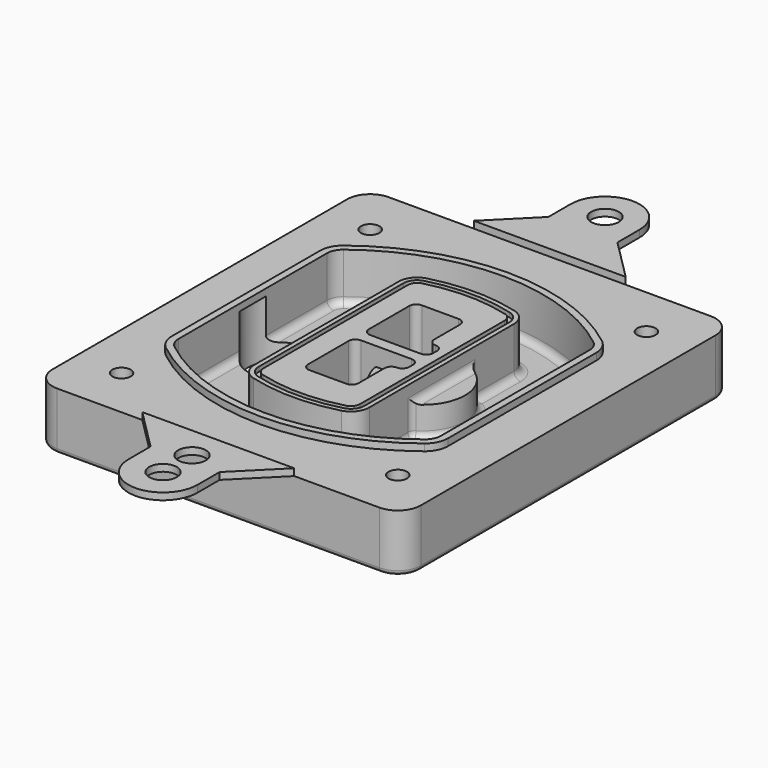
from build123d import *

# Parameters (mm, degrees)
F0_R      = 4
F1_DEPTH  = 25
F2_DEPTH  = 3
F3_DEPTH  = 18
F5_DEPTH  = 21
F6_DEPTH  = 2
F8_DEPTH  = 20
F9_DEPTH  = 16
F10_DEPTH = 25
F7_R      = 6
F7_R_2    = 4
F11_DEPTH = 6
F13_DEPTH = 9
F14_R     = 3
F15_R     = 2
F16_R     = 6
F17_DEPTH = 3


with BuildPart() as f1:
    # F0 (on Top) → F1 (new body)
    with BuildSketch(Plane.XY):
        with BuildLine():
            ThreePointArc((-80, -80), (-77.0710678119, -87.0710678119), (-70, -90))
            Line((-70, -90), (70, -90))
            ThreePointArc((70, -90), (77.0710678119, -87.0710678119), (80, -80))
            Line((80, -80), (80, 80))
            ThreePointArc((80, 80), (77.0710678119, 87.0710678119), (70, 90))
            Line((70, 90), (-70, 90))
            ThreePointArc((-70, 90), (-77.0710678119, 87.0710678119), (-80, 80))
            Line((-80, 80), (-80, -80))
        make_face()
        with Locations((-60, -67.5)):
            Circle(F0_R, mode=Mode.SUBTRACT)
        with Locations((60, -67.5)):
            Circle(F0_R, mode=Mode.SUBTRACT)
        with Locations((-60, 67.5)):
            Circle(F0_R, mode=Mode.SUBTRACT)
        with BuildLine():
            ThreePointArc((-64, 40.2934422872), (-62.5820384798, 46.4328484224), (-58.6153846154, 51.3286200352))
            ThreePointArc((-58.6153846154, 51.3286200352), (0, 71.5), (58.6153846154, 51.3286200352))
            ThreePointArc((58.6153846154, 51.3286200352), (62.5820384798, 46.4328484224), (64, 40.2934422872))
            Line((64, 40.2934422872), (64, -40.2934422872))
            ThreePointArc((64, -40.2934422872), (62.5820384798, -46.4328484224), (58.6153846154, -51.3286200352))
            ThreePointArc((58.6153846154, -51.3286200352), (0, -71.5), (-58.6153846154, -51.3286200352))
            ThreePointArc((-58.6153846154, -51.3286200352), (-62.5820384798, -46.4328484224), (-64, -40.2934422872))
            Line((-64, -40.2934422872), (-64, 40.2934422872))
        make_face(mode=Mode.SUBTRACT)
        with Locations((60, 67.5)):
            Circle(F0_R, mode=Mode.SUBTRACT)
        with BuildLine():
            ThreePointArc((58.6153846154, 51.3286200352), (0, 71.5), (-58.6153846154, 51.3286200352))
            ThreePointArc((-58.6153846154, 51.3286200352), (-62.5820384798, 46.4328484224), (-64, 40.2934422872))
            Line((-64, 40.2934422872), (-64, -40.2934422872))
            ThreePointArc((-64, -40.2934422872), (-62.5820384798, -46.4328484224), (-58.6153846154, -51.3286200352))
            ThreePointArc((-58.6153846154, -51.3286200352), (0, -71.5), (58.6153846154, -51.3286200352))
            ThreePointArc((58.6153846154, -51.3286200352), (62.5820384798, -46.4328484224), (64, -40.2934422872))
            Line((64, -40.2934422872), (64, 40.2934422872))
            ThreePointArc((64, 40.2934422872), (62.5820384798, 46.4328484224), (58.6153846154, 51.3286200352))
        make_face()
        with BuildLine():
            Line((-60, -40.2934422872), (-60, 40.2934422872))
            ThreePointArc((-60, 40.2934422872), (-58.9871703427, 44.6787323838), (-56.1538461538, 48.1757121072))
            ThreePointArc((-56.1538461538, 48.1757121072), (0, 67.5), (56.1538461538, 48.1757121072))
            ThreePointArc((56.1538461538, 48.1757121072), (58.9871703427, 44.6787323838), (60, 40.2934422872))
            Line((60, 40.2934422872), (60, -40.2934422872))
            ThreePointArc((60, -40.2934422872), (58.9871703427, -44.6787323838), (56.1538461538, -48.1757121072))
            ThreePointArc((56.1538461538, -48.1757121072), (0, -67.5), (-56.1538461538, -48.1757121072))
            ThreePointArc((-56.1538461538, -48.1757121072), (-58.9871703427, -44.6787323838), (-60, -40.2934422872))
        make_face(mode=Mode.SUBTRACT)
        with BuildLine():
            ThreePointArc((-56.1538461538, 48.1757121072), (-58.9871703427, 44.6787323838), (-60, 40.2934422872))
            Line((-60, 40.2934422872), (-60, -40.2934422872))
            ThreePointArc((-60, -40.2934422872), (-58.9871703427, -44.6787323838), (-56.1538461538, -48.1757121072))
            ThreePointArc((-56.1538461538, -48.1757121072), (0, -67.5), (56.1538461538, -48.1757121072))
            ThreePointArc((56.1538461538, -48.1757121072), (58.9871703427, -44.6787323838), (60, -40.2934422872))
            Line((60, -40.2934422872), (60, 40.2934422872))
            ThreePointArc((60, 40.2934422872), (58.9871703427, 44.6787323838), (56.1538461538, 48.1757121072))
            ThreePointArc((56.1538461538, 48.1757121072), (0, 67.5), (-56.1538461538, 48.1757121072))
        make_face()
        with BuildLine():
            ThreePointArc((54.3076923077, 45.8110311612), (56.2910192399, 43.3631453548), (57, 40.2934422872))
            Line((57, 40.2934422872), (57, -40.2934422872))
            ThreePointArc((57, -40.2934422872), (56.2910192399, -43.3631453548), (54.3076923077, -45.8110311612))
            ThreePointArc((54.3076923077, -45.8110311612), (0, -64.5), (-54.3076923077, -45.8110311612))
            ThreePointArc((-54.3076923077, -45.8110311612), (-56.2910192399, -43.3631453548), (-57, -40.2934422872))
            Line((-57, -40.2934422872), (-57, 40.2934422872))
            ThreePointArc((-57, 40.2934422872), (-56.2910192399, 43.3631453548), (-54.3076923077, 45.8110311612))
            ThreePointArc((-54.3076923077, 45.8110311612), (0, 64.5), (54.3076923077, 45.8110311612))
        make_face(mode=Mode.SUBTRACT)
        with BuildLine():
            Line((57, -40.2934422872), (57, 40.2934422872))
            ThreePointArc((57, 40.2934422872), (56.2910192399, 43.3631453548), (54.3076923077, 45.8110311612))
            ThreePointArc((54.3076923077, 45.8110311612), (0, 64.5), (-54.3076923077, 45.8110311612))
            ThreePointArc((-54.3076923077, 45.8110311612), (-56.2910192399, 43.3631453548), (-57, 40.2934422872))
            Line((-57, 40.2934422872), (-57, -40.2934422872))
            ThreePointArc((-57, -40.2934422872), (-56.2910192399, -43.3631453548), (-54.3076923077, -45.8110311612))
            ThreePointArc((-54.3076923077, -45.8110311612), (0, -64.5), (54.3076923077, -45.8110311612))
            ThreePointArc((54.3076923077, -45.8110311612), (56.2910192399, -43.3631453548), (57, -40.2934422872))
        make_face()
    extrude(amount=-F1_DEPTH)

    # F0 (on Top) → F2 (join)
    with BuildSketch(Plane.XY):
        with BuildLine():
            ThreePointArc((-56.1538461538, 48.1757121072), (-58.9871703427, 44.6787323838), (-60, 40.2934422872))
            Line((-60, 40.2934422872), (-60, -40.2934422872))
            ThreePointArc((-60, -40.2934422872), (-58.9871703427, -44.6787323838), (-56.1538461538, -48.1757121072))
            ThreePointArc((-56.1538461538, -48.1757121072), (0, -67.5), (56.1538461538, -48.1757121072))
            ThreePointArc((56.1538461538, -48.1757121072), (58.9871703427, -44.6787323838), (60, -40.2934422872))
            Line((60, -40.2934422872), (60, 40.2934422872))
            ThreePointArc((60, 40.2934422872), (58.9871703427, 44.6787323838), (56.1538461538, 48.1757121072))
            ThreePointArc((56.1538461538, 48.1757121072), (0, 67.5), (-56.1538461538, 48.1757121072))
        make_face()
        with BuildLine():
            ThreePointArc((54.3076923077, 45.8110311612), (56.2910192399, 43.3631453548), (57, 40.2934422872))
            Line((57, 40.2934422872), (57, -40.2934422872))
            ThreePointArc((57, -40.2934422872), (56.2910192399, -43.3631453548), (54.3076923077, -45.8110311612))
            ThreePointArc((54.3076923077, -45.8110311612), (0, -64.5), (-54.3076923077, -45.8110311612))
            ThreePointArc((-54.3076923077, -45.8110311612), (-56.2910192399, -43.3631453548), (-57, -40.2934422872))
            Line((-57, -40.2934422872), (-57, 40.2934422872))
            ThreePointArc((-57, 40.2934422872), (-56.2910192399, 43.3631453548), (-54.3076923077, 45.8110311612))
            ThreePointArc((-54.3076923077, 45.8110311612), (0, 64.5), (54.3076923077, 45.8110311612))
        make_face(mode=Mode.SUBTRACT)
    extrude(amount=F2_DEPTH)

    # F0 (on Top) → F3 (cut)
    with BuildSketch(Plane.XY):
        with BuildLine():
            Line((57, -40.2934422872), (57, 40.2934422872))
            ThreePointArc((57, 40.2934422872), (56.2910192399, 43.3631453548), (54.3076923077, 45.8110311612))
            ThreePointArc((54.3076923077, 45.8110311612), (0, 64.5), (-54.3076923077, 45.8110311612))
            ThreePointArc((-54.3076923077, 45.8110311612), (-56.2910192399, 43.3631453548), (-57, 40.2934422872))
            Line((-57, 40.2934422872), (-57, -40.2934422872))
            ThreePointArc((-57, -40.2934422872), (-56.2910192399, -43.3631453548), (-54.3076923077, -45.8110311612))
            ThreePointArc((-54.3076923077, -45.8110311612), (0, -64.5), (54.3076923077, -45.8110311612))
            ThreePointArc((54.3076923077, -45.8110311612), (56.2910192399, -43.3631453548), (57, -40.2934422872))
        make_face()
    extrude(amount=-F3_DEPTH, mode=Mode.SUBTRACT)

    # F4 (on face) → F5 (join, through all)
    with BuildSketch(Plane.XY.offset(3)):
        with BuildLine():
            ThreePointArc((-25, -39.2465276821), (-23.3511545998, -44.1109737193), (-19.0842911877, -46.9702398883))
            ThreePointArc((-19.0842911877, -46.9702398883), (0, -49.5), (19.0842911877, -46.9702398883))
            ThreePointArc((19.0842911877, -46.9702398883), (23.3511545998, -44.1109737193), (25, -39.2465276821))
            Line((25, -39.2465276821), (25, 39.2465276821))
            ThreePointArc((25, 39.2465276821), (23.3511545998, 44.1109737193), (19.0842911877, 46.9702398883))
            ThreePointArc((19.0842911877, 46.9702398883), (0, 49.5), (-19.0842911877, 46.9702398883))
            ThreePointArc((-19.0842911877, 46.9702398883), (-23.3511545998, 44.1109737193), (-25, 39.2465276821))
            Line((-25, 39.2465276821), (-25, -39.2465276821))
        make_face()
        with BuildLine():
            ThreePointArc((18.5632183908, 45.0393118368), (21.7633659499, 42.89486221), (23, 39.2465276821))
            Line((23, 39.2465276821), (23, -39.2465276821))
            ThreePointArc((23, -39.2465276821), (21.7633659499, -42.89486221), (18.5632183908, -45.0393118368))
            ThreePointArc((18.5632183908, -45.0393118368), (0, -47.5), (-18.5632183908, -45.0393118368))
            ThreePointArc((-18.5632183908, -45.0393118368), (-21.7633659499, -42.89486221), (-23, -39.2465276821))
            Line((-23, -39.2465276821), (-23, 39.2465276821))
            ThreePointArc((-23, 39.2465276821), (-21.7633659499, 42.89486221), (-18.5632183908, 45.0393118368))
            ThreePointArc((-18.5632183908, 45.0393118368), (0, 47.5), (18.5632183908, 45.0393118368))
        make_face(mode=Mode.SUBTRACT)
        with BuildLine():
            Line((23, -39.2465276821), (23, 39.2465276821))
            ThreePointArc((23, 39.2465276821), (21.7633659499, 42.89486221), (18.5632183908, 45.0393118368))
            ThreePointArc((18.5632183908, 45.0393118368), (0, 47.5), (-18.5632183908, 45.0393118368))
            ThreePointArc((-18.5632183908, 45.0393118368), (-21.7633659499, 42.89486221), (-23, 39.2465276821))
            Line((-23, 39.2465276821), (-23, -39.2465276821))
            ThreePointArc((-23, -39.2465276821), (-21.7633659499, -42.89486221), (-18.5632183908, -45.0393118368))
            ThreePointArc((-18.5632183908, -45.0393118368), (0, -47.5), (18.5632183908, -45.0393118368))
            ThreePointArc((18.5632183908, -45.0393118368), (21.7633659499, -42.89486221), (23, -39.2465276821))
        make_face()
        with BuildLine():
            ThreePointArc((18.0421455939, 43.1083837852), (20.1755772999, 41.6787507007), (21, 39.2465276821))
            Line((21, 39.2465276821), (21, -39.2465276821))
            ThreePointArc((21, -39.2465276821), (20.1755772999, -41.6787507007), (18.0421455939, -43.1083837852))
            ThreePointArc((18.0421455939, -43.1083837852), (0, -45.5), (-18.0421455939, -43.1083837852))
            ThreePointArc((-18.0421455939, -43.1083837852), (-20.1755772999, -41.6787507007), (-21, -39.2465276821))
            Line((-21, -39.2465276821), (-21, 39.2465276821))
            ThreePointArc((-21, 39.2465276821), (-20.1755772999, 41.6787507007), (-18.0421455939, 43.1083837852))
            ThreePointArc((-18.0421455939, 43.1083837852), (0, 45.5), (18.0421455939, 43.1083837852))
        make_face(mode=Mode.SUBTRACT)
        with BuildLine():
            Line((21, -39.2465276821), (21, 39.2465276821))
            ThreePointArc((21, 39.2465276821), (20.1755772999, 41.6787507007), (18.0421455939, 43.1083837852))
            ThreePointArc((18.0421455939, 43.1083837852), (0, 45.5), (-18.0421455939, 43.1083837852))
            ThreePointArc((-18.0421455939, 43.1083837852), (-20.1755772999, 41.6787507007), (-21, 39.2465276821))
            Line((-21, 39.2465276821), (-21, -39.2465276821))
            ThreePointArc((-21, -39.2465276821), (-20.1755772999, -41.6787507007), (-18.0421455939, -43.1083837852))
            ThreePointArc((-18.0421455939, -43.1083837852), (0, -45.5), (18.0421455939, -43.1083837852))
            ThreePointArc((18.0421455939, -43.1083837852), (20.1755772999, -41.6787507007), (21, -39.2465276821))
        make_face()
        with BuildLine():
            Line((-8, -2.5), (14, -2.5))
            ThreePointArc((14, -2.5), (16.1213203436, -3.3786796564), (17, -5.5))
            Line((17, -5.5), (17, -7.5))
            ThreePointArc((17, -7.5), (16.1213203436, -9.6213203436), (14, -10.5))
            ThreePointArc((14, -10.5), (11.8786796564, -11.3786796564), (11, -13.5))
            Line((11, -13.5), (11, -27.5))
            ThreePointArc((11, -27.5), (10.1213203436, -29.6213203436), (8, -30.5))
            Line((8, -30.5), (-8, -30.5))
            ThreePointArc((-8, -30.5), (-10.1213203436, -29.6213203436), (-11, -27.5))
            Line((-11, -27.5), (-11, -5.5))
            ThreePointArc((-11, -5.5), (-10.1213203436, -3.3786796564), (-8, -2.5))
        make_face(mode=Mode.SUBTRACT)
        with BuildLine():
            ThreePointArc((-8, 2.5), (-10.1213203436, 3.3786796564), (-11, 5.5))
            Line((-11, 5.5), (-11, 27.5))
            ThreePointArc((-11, 27.5), (-10.1213203436, 29.6213203436), (-8, 30.5))
            Line((-8, 30.5), (8, 30.5))
            ThreePointArc((8, 30.5), (10.1213203436, 29.6213203436), (11, 27.5))
            Line((11, 27.5), (11, 13.5))
            ThreePointArc((11, 13.5), (11.8786796564, 11.3786796564), (14, 10.5))
            ThreePointArc((14, 10.5), (16.1213203436, 9.6213203436), (17, 7.5))
            Line((17, 7.5), (17, 5.5))
            ThreePointArc((17, 5.5), (16.1213203436, 3.3786796564), (14, 2.5))
            Line((14, 2.5), (-8, 2.5))
        make_face(mode=Mode.SUBTRACT)
    extrude(amount=-F5_DEPTH)

    # F4 (on face) → F6 (cut)
    with BuildSketch(Plane.XY.offset(3)):
        with BuildLine():
            Line((23, -39.2465276821), (23, 39.2465276821))
            ThreePointArc((23, 39.2465276821), (21.7633659499, 42.89486221), (18.5632183908, 45.0393118368))
            ThreePointArc((18.5632183908, 45.0393118368), (0, 47.5), (-18.5632183908, 45.0393118368))
            ThreePointArc((-18.5632183908, 45.0393118368), (-21.7633659499, 42.89486221), (-23, 39.2465276821))
            Line((-23, 39.2465276821), (-23, -39.2465276821))
            ThreePointArc((-23, -39.2465276821), (-21.7633659499, -42.89486221), (-18.5632183908, -45.0393118368))
            ThreePointArc((-18.5632183908, -45.0393118368), (0, -47.5), (18.5632183908, -45.0393118368))
            ThreePointArc((18.5632183908, -45.0393118368), (21.7633659499, -42.89486221), (23, -39.2465276821))
        make_face()
        with BuildLine():
            ThreePointArc((18.0421455939, 43.1083837852), (20.1755772999, 41.6787507007), (21, 39.2465276821))
            Line((21, 39.2465276821), (21, -39.2465276821))
            ThreePointArc((21, -39.2465276821), (20.1755772999, -41.6787507007), (18.0421455939, -43.1083837852))
            ThreePointArc((18.0421455939, -43.1083837852), (0, -45.5), (-18.0421455939, -43.1083837852))
            ThreePointArc((-18.0421455939, -43.1083837852), (-20.1755772999, -41.6787507007), (-21, -39.2465276821))
            Line((-21, -39.2465276821), (-21, 39.2465276821))
            ThreePointArc((-21, 39.2465276821), (-20.1755772999, 41.6787507007), (-18.0421455939, 43.1083837852))
            ThreePointArc((-18.0421455939, 43.1083837852), (0, 45.5), (18.0421455939, 43.1083837852))
        make_face(mode=Mode.SUBTRACT)
    extrude(amount=-F6_DEPTH, mode=Mode.SUBTRACT)

    # F7 (on face) → F8 (join)
    with BuildSketch(Plane(origin=(0, 0, -25), x_dir=(1, 0, 0), z_dir=(0, 0, -1))):
        with BuildLine():
            ThreePointArc((3.28842436, 0), (16.7567035675, 13.4682792075), (30.224982775, 0))
            Line((30.224982775, 0), (35.224982775, 0))
            ThreePointArc((35.224982775, 0), (16.7567035675, 18.4682792075), (-1.71157564, 0))
            Line((-1.71157564, 0), (3.28842436, 0))
        make_face()
        with BuildLine():
            Line((3.28842436, 0), (30.224982775, 0))
            ThreePointArc((30.224982775, 0), (16.7567035675, 13.4682792075), (3.28842436, 0))
        make_face()
        with BuildLine():
            ThreePointArc((3.28842436, 0), (16.7567035675, -13.4682792075), (30.224982775, 0))
            Line((30.224982775, 0), (3.28842436, 0))
        make_face()
        with BuildLine():
            Line((35.224982775, 0), (30.224982775, 0))
            ThreePointArc((30.224982775, 0), (16.7567035675, -13.4682792075), (3.28842436, 0))
            Line((3.28842436, 0), (-1.71157564, 0))
            ThreePointArc((-1.71157564, 0), (16.7567035675, -18.4682792075), (35.224982775, 0))
        make_face()
    extrude(amount=-F8_DEPTH)

    # F7 (on face) → F9 (cut)
    with BuildSketch(Plane(origin=(0, 0, -25), x_dir=(1, 0, 0), z_dir=(0, 0, -1))):
        with BuildLine():
            Line((3.28842436, 0), (30.224982775, 0))
            ThreePointArc((30.224982775, 0), (16.7567035675, 13.4682792075), (3.28842436, 0))
        make_face()
        with BuildLine():
            ThreePointArc((3.28842436, 0), (16.7567035675, -13.4682792075), (30.224982775, 0))
            Line((30.224982775, 0), (3.28842436, 0))
        make_face()
    extrude(amount=-F9_DEPTH, mode=Mode.SUBTRACT)

    # F7 (on face) → F10 (cut)
    with BuildSketch(Plane(origin=(0, 0, -25), x_dir=(1, 0, 0), z_dir=(0, 0, -1))):
        with BuildLine():
            Line((-59.0318229325, 0), (-32.0952645175, 0))
            ThreePointArc((-32.0952645175, 0), (-45.563543725, 13.4682792075), (-59.0318229325, 0))
        make_face()
        with BuildLine():
            ThreePointArc((-59.0318229325, 0), (-45.563543725, -13.4682792075), (-32.0952645175, 0))
            Line((-32.0952645175, 0), (-59.0318229325, 0))
        make_face()
    extrude(amount=-F10_DEPTH, mode=Mode.SUBTRACT)

    # F7 (on face) → F11 (cut)
    with BuildSketch(Plane(origin=(0, 0, -25), x_dir=(1, 0, 0), z_dir=(0, 0, -1))):
        with Locations((60, -67.5)):
            Circle(F7_R)
        with Locations((60, -67.5)):
            Circle(F7_R_2, mode=Mode.SUBTRACT)
        with Locations((60, -67.5)):
            Circle(F7_R)
        with Locations((60, -67.5)):
            Circle(F7_R_2, mode=Mode.SUBTRACT)
        with Locations((-60, -67.5)):
            Circle(F7_R)
        with Locations((-60, -67.5)):
            Circle(F7_R_2, mode=Mode.SUBTRACT)
        with Locations((-60, -67.5)):
            Circle(F7_R)
        with Locations((-60, -67.5)):
            Circle(F7_R_2, mode=Mode.SUBTRACT)
        with Locations((-60, 67.5)):
            Circle(F7_R)
        with Locations((-60, 67.5)):
            Circle(F7_R_2, mode=Mode.SUBTRACT)
        with Locations((-60, 67.5)):
            Circle(F7_R)
        with Locations((-60, 67.5)):
            Circle(F7_R_2, mode=Mode.SUBTRACT)
        with Locations((60, 67.5)):
            Circle(F7_R)
        with Locations((60, 67.5)):
            Circle(F7_R_2, mode=Mode.SUBTRACT)
        with Locations((60, 67.5)):
            Circle(F7_R)
        with Locations((60, 67.5)):
            Circle(F7_R_2, mode=Mode.SUBTRACT)
    extrude(amount=-F11_DEPTH, mode=Mode.SUBTRACT)

    # F12 (on face) → F13 (cut, through all)
    with BuildSketch(Plane(origin=(0, 0, -9), x_dir=(1, 0, 0), z_dir=(0, 0, -1))):
        with BuildLine():
            Line((11, 13.5), (11, 17.5481537753))
            ThreePointArc((11, 17.5481537753), (2.5696536419, 11.8239143813), (-1.5415842455, 2.5))
            Line((-1.5415842455, 2.5), (3.5224848595, 2.5))
            ThreePointArc((3.5224848595, 2.5), (6.1857188154, 8.3455872281), (11.2536447004, 12.2927168648))
            ThreePointArc((11.2536447004, 12.2927168648), (11.0640958889, 12.8831798879), (11, 13.5))
        make_face()
        with BuildLine():
            ThreePointArc((11.2536447004, -12.2927168648), (6.1857188154, -8.3455872281), (3.5224848595, -2.5))
            Line((3.5224848595, -2.5), (-1.5415842455, -2.5))
            ThreePointArc((-1.5415842455, -2.5), (2.5696536419, -11.8239143813), (11, -17.5481537753))
            Line((11, -17.5481537753), (11, -13.5))
            ThreePointArc((11, -13.5), (11.0640958889, -12.8831798879), (11.2536447004, -12.2927168648))
        make_face()
        with BuildLine():
            ThreePointArc((11.2536447004, 12.2927168648), (6.1857188154, 8.3455872281), (3.5224848595, 2.5))
            Line((3.5224848595, 2.5), (14, 2.5))
            ThreePointArc((14, 2.5), (16.1213203436, 3.3786796564), (17, 5.5))
            Line((17, 5.5), (17, 7.5))
            ThreePointArc((17, 7.5), (16.1213203436, 9.6213203436), (14, 10.5))
            ThreePointArc((14, 10.5), (12.3601599782, 10.9878446101), (11.2536447004, 12.2927168648))
        make_face()
        with BuildLine():
            Line((14, -2.5), (3.5224848595, -2.5))
            ThreePointArc((3.5224848595, -2.5), (6.1857188154, -8.3455872281), (11.2536447004, -12.2927168648))
            ThreePointArc((11.2536447004, -12.2927168648), (12.3601599782, -10.9878446101), (14, -10.5))
            ThreePointArc((14, -10.5), (16.1213203436, -9.6213203436), (17, -7.5))
            Line((17, -7.5), (17, -5.5))
            ThreePointArc((17, -5.5), (16.1213203436, -3.3786796564), (14, -2.5))
        make_face()
    extrude(amount=F13_DEPTH, mode=Mode.SUBTRACT)

    # F14
    f14_edges = [f1.edges().sort_by_distance(p)[0] for p in [
        (-57, -23.703476, -18),
        (-57, 23.703476, -18),
        (25, 0, -5),
        (25, 16.526506, -11.5),
        (25, -16.526506, -11.5),
        (25, -27.886517, -18),
        (35.224983, 0, -18),
    ]]
    fillet(f14_edges, radius=F14_R)

    # F15
    f15_edges = [f1.edges().sort_by_distance(p)[0] for p in [
        (0, -90, -25),
    ]]
    fillet(f15_edges, radius=F15_R)


with BuildPart() as f17:
    # F16 (on face) → F17 (new body, through all)
    with BuildSketch(Plane.XY):
        with BuildLine():
            Line((15, 108), (15, 120))
            ThreePointArc((15, 120), (0, 135), (-15, 120))
            Line((-15, 120), (-15, 108))
            Line((-15, 108), (-33, 90))
            Line((-33, 90), (33, 90))
            Line((33, 90), (15, 108))
        make_face()
        with Locations((0, 120)):
            Circle(F16_R, mode=Mode.SUBTRACT)
    extrude(amount=F17_DEPTH)


with BuildPart() as f17b:
    # F16 (on face) → F17, piece 2 (new body, through all)
    with BuildSketch(Plane.XY):
        with BuildLine():
            ThreePointArc((-15, -120), (0, -135), (15, -120))
            Line((15, -120), (15, -108))
            Line((15, -108), (33, -90))
            Line((33, -90), (17.25, -90))
            Line((17.25, -90), (-17.25, -90))
            Line((-17.25, -90), (-33, -90))
            Line((-33, -90), (-15, -108))
            Line((-15, -108), (-15, -120))
        make_face()
        with Locations((0, -120)):
            Circle(F16_R, mode=Mode.SUBTRACT)
        with Locations((0, -104.25)):
            Circle(F16_R, mode=Mode.SUBTRACT)
    extrude(amount=F17_DEPTH)


solid = Compound([f1.part, f17.part, f17b.part])
